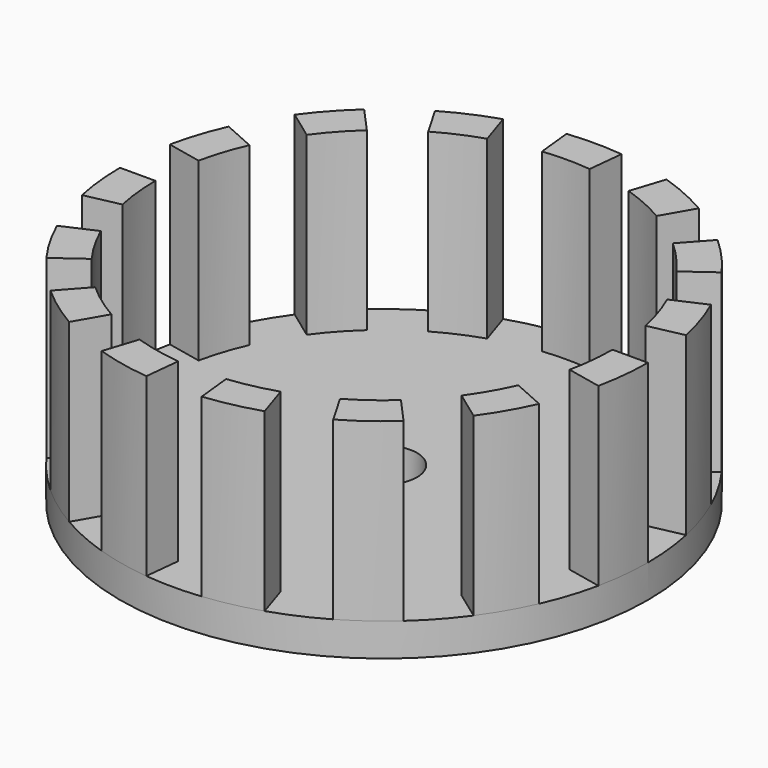
from build123d import *

# Parameters (mm, degrees)
SKETCH_R           = 12
SKETCH_R_2         = 1.5
PAD_DEPTH          = 1.5
PAD001_DEPTH       = 8
POLARPATTERN_COUNT = 15


with BuildPart() as part:
    # Sketch → Pad (new body)
    with BuildSketch(Plane.XY):
        Circle(SKETCH_R)
        Circle(SKETCH_R_2, mode=Mode.SUBTRACT)
    extrude(amount=PAD_DEPTH)

    # Sketch001 → Pad001 (new body)
    with BuildSketch(Plane.XY.offset(1.5)):
        with BuildLine():
            ThreePointArc((1.25, 11.934718), (0, 12), (-1.25, 11.934718))
            Line((-1.25, 11.934718), (-1.082422, 10.334718))
            ThreePointArc((1.082422, 10.334718), (0, 10.391248), (-1.082422, 10.334718))
            Line((1.25, 11.934718), (1.082422, 10.334718))
        make_face()
    pad001 = extrude(amount=PAD001_DEPTH)

    # PolarPattern: Pad001 ×15 about axis
    polarpattern_axis = Axis((0, 0, 1.5), (0, 0, 1))
    for i in range(1, POLARPATTERN_COUNT):
        add(pad001.rotate(polarpattern_axis, i * 360 / POLARPATTERN_COUNT))


solid = part.part
